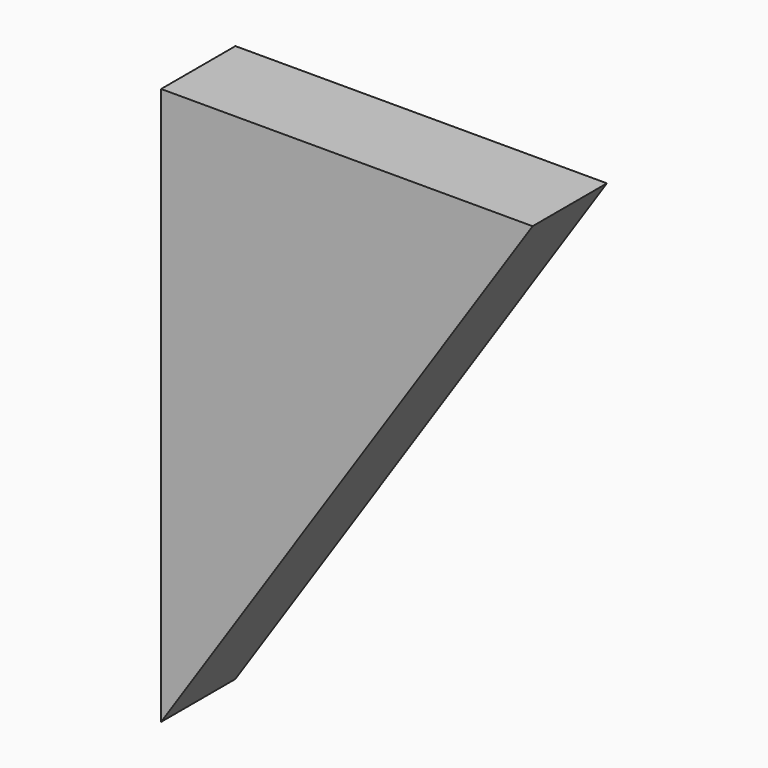
from build123d import *

# Parameters (mm, degrees)
F2_DEPTH = 6.35


with BuildPart() as f2:
    # F1 (on face) → F2 (new body)
    with BuildSketch(Plane.XZ):
        Polygon((-25.4, 0), (0, 38.1), (-25.4, 38.1), align=None)
    extrude(amount=F2_DEPTH)


solid = f2.part
